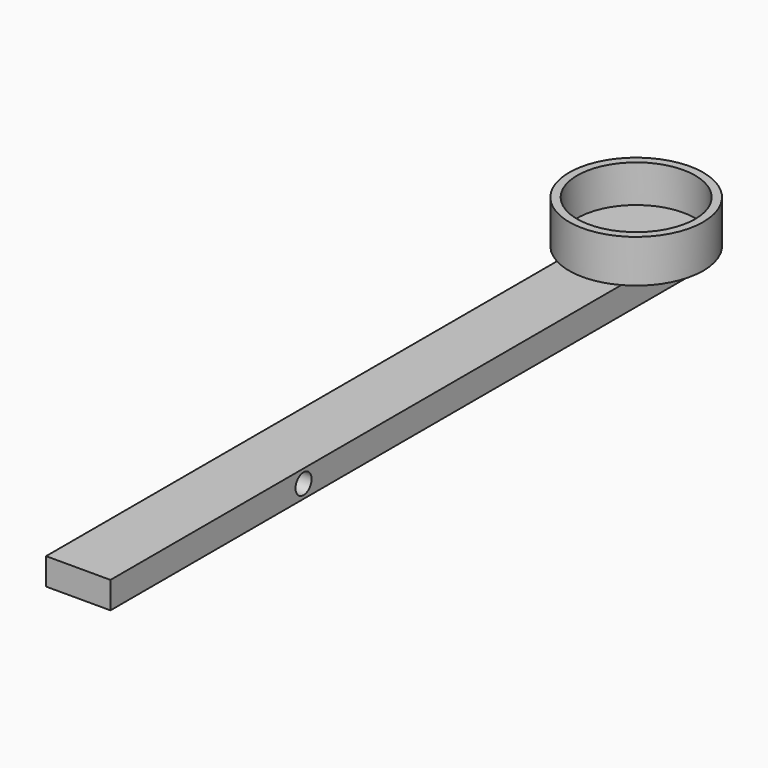
from build123d import *

# Parameters (mm, degrees)
F0_W     = 15.24
F0_H     = 6.35
F1_DEPTH = 177.8
F2_R     = 2.38125
F3_DEPTH = 15.241
F4_R     = 15.875
F5_DEPTH = 10.16
F6_R     = 13.97
F7_DEPTH = 8.89


with BuildPart() as f1:
    # F0 (on Front) → F1 (new body)
    with BuildSketch(Plane.XZ):
        with Locations((1.199444, 3.175)):
            Rectangle(F0_W, F0_H)
    extrude(amount=F1_DEPTH)

    # F2 (on face) → F3 (cut, through all)
    with BuildSketch(Plane.YZ.offset(8.819444)):
        with Locations((-120.65, 3.175)):
            Circle(F2_R)
    extrude(amount=-F3_DEPTH, mode=Mode.SUBTRACT)

    # F4 (on face) → F5 (join)
    with BuildSketch(Plane.XY.offset(6.35)):
        with Locations((1.199444, -12.7)):
            Circle(F4_R)
    extrude(amount=F5_DEPTH)

    # F6 (on face) → F7 (cut)
    with BuildSketch(Plane.XY.offset(16.51)):
        with Locations((1.199444, -12.7)):
            Circle(F6_R)
    extrude(amount=-F7_DEPTH, mode=Mode.SUBTRACT)


solid = f1.part
